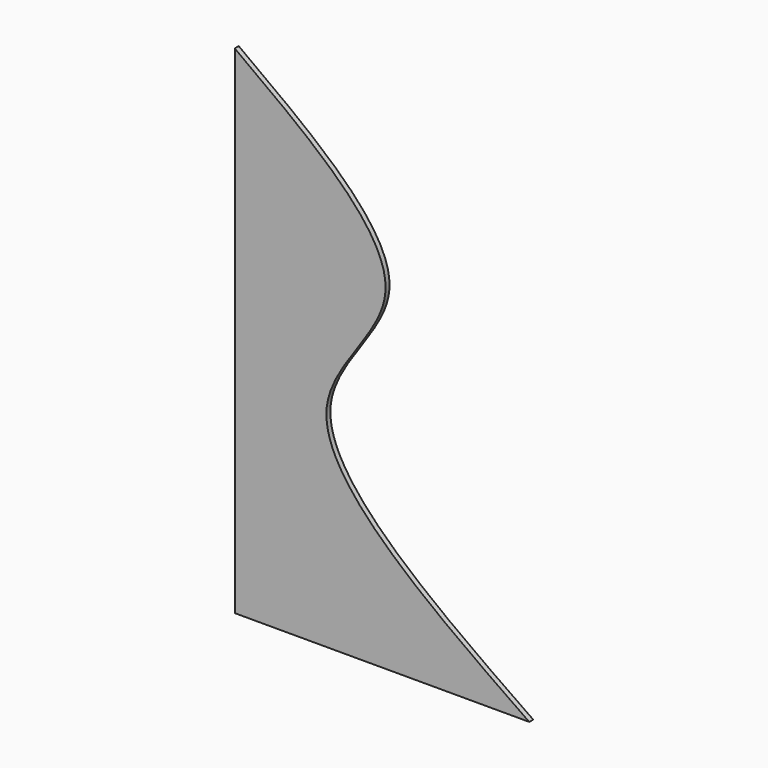
from build123d import *

# Parameters (mm, degrees)
F1_DEPTH = 15.24


with BuildPart() as f1:
    # F0 (on Front) → F1 (new body)
    with BuildSketch(Plane.XZ):
        with BuildLine():
            add(Edge.make_bspline(
                [(0, 782.8291369095), (236.8614326487, 610.528833462), (659.8312991992, 301.8252874471), (52.33096461, -142.2670428194), (585.6085132594, -522.4108102974), (902.6568804325, -741.1708630905)],
                knots=[0, 0, 0, 0, 0.3422206786, 0.6098309572, 1, 1, 1, 1], degree=3))
            Line((0, 782.8291369095), (0, -741.1708630905))
            Line((0, -741.1708630905), (902.6568804325, -741.1708630905))
        make_face()
    extrude(amount=F1_DEPTH)


solid = f1.part
